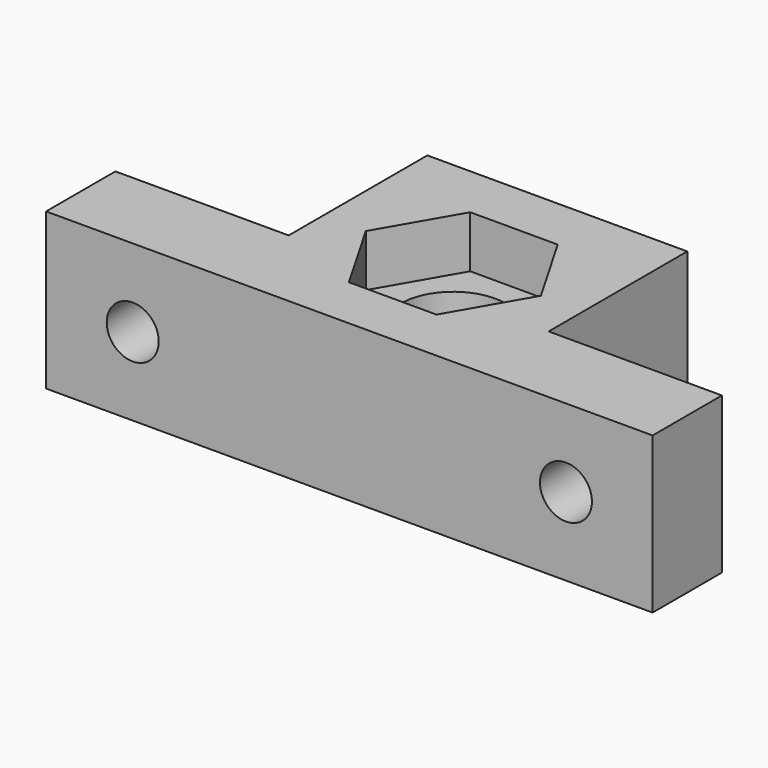
from build123d import *

# Parameters (mm, degrees)
F0_R     = 6
F1_DEPTH = 18
F2_R     = 6
F3_DEPTH = 6
F4_R     = 3
F5_DEPTH = 25
F6_R     = 6
F7_DEPTH = 6


with BuildPart() as f1:
    # F0 (on Top) → F1 (new body)
    with BuildSketch(Plane.XY):
        Polygon((0, 10), (0, 0), (70, 0), (70, 10), (50, 10), (50, 30), (20, 30), (20, 10), align=None)
        with Locations((35, 15)):
            Circle(F0_R, mode=Mode.SUBTRACT)
    extrude(amount=F1_DEPTH)

    # F2 (on face) → F3 (cut)
    with BuildSketch(Plane.XY.offset(18)):
        Polygon((40.051815, 23.75), (29.948185, 23.75), (24.89637, 15), (29.948185, 6.25), (40.051815, 6.25), (45.10363, 15), align=None)
        with Locations((35, 15)):
            Circle(F2_R, mode=Mode.SUBTRACT)
    extrude(amount=-F3_DEPTH, mode=Mode.SUBTRACT)

    # F4 (on face) → F5 (cut)
    with BuildSketch(Plane(origin=(0, 10, 0), x_dir=(-1, 0, 0), z_dir=(0, 1, 0))):
        with Locations((-60, 9)):
            Circle(F4_R)
        with Locations((-10, 9)):
            Circle(F4_R)
    extrude(amount=-F5_DEPTH, mode=Mode.SUBTRACT)

    # F6 (on face) → F7 (cut)
    with BuildSketch(Plane(origin=(0, 0, 0), x_dir=(1, 0, 0), z_dir=(0, 0, -1))):
        Polygon((29.948185, -23.75), (40.051815, -23.75), (45.10363, -15), (40.051815, -6.25), (29.948185, -6.25), (24.89637, -15), align=None)
        with Locations((35, -15)):
            Circle(F6_R, mode=Mode.SUBTRACT)
    extrude(amount=-F7_DEPTH, mode=Mode.SUBTRACT)


solid = f1.part
